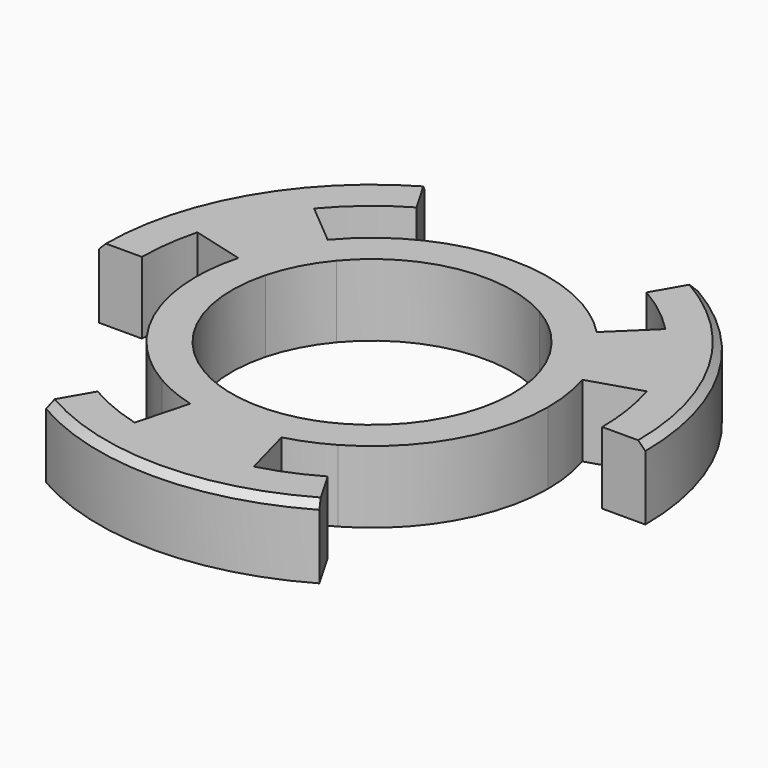
from build123d import *

# Parameters (mm, degrees)
F1_DEPTH = 10
F2_SIZE  = 1


with BuildPart() as f1:
    # F0 (on Top) → F1 (new body)
    with BuildSketch(Plane.XY):
        with BuildLine():
            ThreePointArc((17.5987305893, 17.0450779301), (21.0588665715, 12.5209479961), (23.3808837783, 7.320127987))
            Line((23.3808837783, 7.320127987), (30.5382971798, 9.5609834933))
            ThreePointArc((30.5382971798, 9.5609834933), (27.5054583792, 16.3538912603), (22.9860970963, 22.2629589292))
            Line((22.9860970963, 22.2629589292), (17.5987305893, 17.0450779301))
        make_face()
        with BuildLine():
            ThreePointArc((-9.75, -16.8874953738), (-18.015650884, -7.4623269311), (-18.8355536126, 5.0469713795))
            Line((-18.8355536126, 5.0469713795), (-23.6651827441, 6.341066605))
            ThreePointArc((-23.6651827441, 6.341066605), (-24.2903991037, 3.1978917094), (-24.5, 0))
            ThreePointArc((-24.5, 0), (-21.2176223927, -12.25), (-12.25, -21.2176223927))
            Line((-12.25, -21.2176223927), (-9.75, -16.8874953738))
        make_face()
        with BuildLine():
            Line((-23.6651827441, 6.341066605), (-18.8355536126, 5.0469713795))
            ThreePointArc((-18.8355536126, 5.0469713795), (-17.296711247, 9.0040979581), (-14.9378666408, 12.5343583889))
            Line((-14.9378666408, 12.5343583889), (-18.7680888564, 15.7482964373))
            ThreePointArc((-18.7680888564, 15.7482964373), (-21.7317654129, 11.3128410243), (-23.6651827441, 6.341066605))
        make_face()
        with BuildLine():
            Line((-18.7680888564, 15.7482964373), (-14.9378666408, 12.5343583889))
            ThreePointArc((-14.9378666408, 12.5343583889), (-3.3861394645, 19.2037511837), (9.75, 16.8874953738))
            Line((9.75, 16.8874953738), (12.25, 21.2176223927))
            ThreePointArc((12.25, 21.2176223927), (0, 24.5), (-12.25, 21.2176223927))
            ThreePointArc((-12.25, 21.2176223927), (-15.7482964373, 18.7680888564), (-18.7680888564, 15.7482964373))
        make_face()
        with BuildLine():
            ThreePointArc((9.75, 16.8874953738), (11.9940754906, 15.3750496951), (14.007152918, 13.5664905975))
            Line((14.007152918, 13.5664905975), (17.5987305893, 17.0450779301))
            ThreePointArc((17.5987305893, 17.0450779301), (15.0694794625, 19.3173701297), (12.25, 21.2176223927))
            Line((12.25, 21.2176223927), (9.75, 16.8874953738))
        make_face()
        with BuildLine():
            Line((-30.9096264413, 8.2822094433), (-23.6651827441, 6.341066605))
            ThreePointArc((-23.6651827441, 6.341066605), (-21.7317654129, 11.3128410243), (-18.7680888564, 15.7482964373))
            Line((-18.7680888564, 15.7482964373), (-24.5134221798, 20.56920351))
            ThreePointArc((-24.5134221798, 20.56920351), (-28.3843466617, 14.7759556235), (-30.9096264413, 8.2822094433))
        make_face()
        with BuildLine():
            Line((12.25, -21.2176223927), (9.75, -16.8874953738))
            ThreePointArc((9.75, -16.8874953738), (7.4623269311, -18.015650884), (5.0469713795, -18.8355536126))
            Line((5.0469713795, -18.8355536126), (6.341066605, -23.6651827441))
            ThreePointArc((6.341066605, -23.6651827441), (9.3757440929, -22.6350485465), (12.25, -21.2176223927))
        make_face()
        with BuildLine():
            Line((24.5, 0), (19.5, 0))
            ThreePointArc((19.5, 0), (16.8874953738, -9.75), (9.75, -16.8874953738))
            Line((9.75, -16.8874953738), (12.25, -21.2176223927))
            ThreePointArc((12.25, -21.2176223927), (21.2176223927, -12.25), (24.5, 0))
        make_face()
        with BuildLine():
            ThreePointArc((14.007152918, 13.5664905975), (16.7611386998, 9.9656524867), (18.6092748439, 5.8262243162))
            Line((18.6092748439, 5.8262243162), (23.3808837783, 7.320127987))
            ThreePointArc((23.3808837783, 7.320127987), (21.0588665715, 12.5209479961), (17.5987305893, 17.0450779301))
            Line((17.5987305893, 17.0450779301), (14.007152918, 13.5664905975))
        make_face()
        with BuildLine():
            Line((6.341066605, -23.6651827441), (5.0469713795, -18.8355536126))
            ThreePointArc((5.0469713795, -18.8355536126), (0, -19.5), (-5.0469713795, -18.8355536126))
            Line((-5.0469713795, -18.8355536126), (-6.341066605, -23.6651827441))
            ThreePointArc((-6.341066605, -23.6651827441), (0, -24.5), (6.341066605, -23.6651827441))
        make_face()
        with BuildLine():
            Line((-6.341066605, -23.6651827441), (-5.0469713795, -18.8355536126))
            ThreePointArc((-5.0469713795, -18.8355536126), (-7.4623269311, -18.015650884), (-9.75, -16.8874953738))
            Line((-9.75, -16.8874953738), (-12.25, -21.2176223927))
            ThreePointArc((-12.25, -21.2176223927), (-9.3757440929, -22.6350485465), (-6.341066605, -23.6651827441))
        make_face()
        with BuildLine():
            ThreePointArc((18.6092748439, 5.8262243162), (19.2760325204, 2.9469594961), (19.5, 0))
            Line((19.5, 0), (24.5, 0))
            ThreePointArc((24.5, 0), (24.2186049616, 3.7025901361), (23.3808837783, 7.320127987))
            Line((23.3808837783, 7.320127987), (18.6092748439, 5.8262243162))
        make_face()
        with BuildLine():
            ThreePointArc((30.5382971798, 9.5609834933), (31.6324636233, 4.8360360962), (32, 0))
            Line((32, 0), (38, 0))
            ThreePointArc((38, 0), (32.9089653438, 19), (19, 32.9089653438))
            Line((19, 32.9089653438), (16, 27.7128129211))
            ThreePointArc((16, 27.7128129211), (19.6825854204, 25.2308507817), (22.9860970963, 22.2629589292))
            ThreePointArc((22.9860970963, 22.2629589292), (27.5054583792, 16.3538912603), (30.5382971798, 9.5609834933))
        make_face()
        with BuildLine():
            ThreePointArc((-32, 0), (-31.726235564, 4.176838151), (-30.9096264413, 8.2822094433))
            ThreePointArc((-30.9096264413, 8.2822094433), (-28.3843466617, 14.7759556235), (-24.5134221798, 20.56920351))
            ThreePointArc((-24.5134221798, 20.56920351), (-20.56920351, 24.5134221798), (-16, 27.7128129211))
            Line((-16, 27.7128129211), (-19, 32.9089653438))
            ThreePointArc((-19, 32.9089653438), (-32.9089653438, 19), (-38, 0))
            Line((-38, 0), (-32, 0))
        make_face()
        with BuildLine():
            Line((19, -32.9089653438), (16, -27.7128129211))
            ThreePointArc((16, -27.7128129211), (12.2458698357, -29.5641450404), (8.2822094433, -30.9096264412))
            ThreePointArc((8.2822094433, -30.9096264412), (0, -32), (-8.2822094433, -30.9096264412))
            ThreePointArc((-8.2822094433, -30.9096264412), (-12.2458698357, -29.5641450404), (-16, -27.7128129211))
            Line((-16, -27.7128129211), (-19, -32.9089653438))
            ThreePointArc((-19, -32.9089653438), (0, -38), (19, -32.9089653438))
        make_face()
        with BuildLine():
            Line((8.2822094433, -30.9096264413), (6.341066605, -23.6651827441))
            ThreePointArc((6.341066605, -23.6651827441), (0, -24.5), (-6.341066605, -23.6651827441))
            Line((-6.341066605, -23.6651827441), (-8.2822094433, -30.9096264413))
            ThreePointArc((-8.2822094433, -30.9096264412), (0, -32), (8.2822094433, -30.9096264412))
        make_face()
    extrude(amount=F1_DEPTH)

    # F2
    f2_edges = [f1.edges().sort_by_distance(p)[0] for p in [
        (32.908965, 19, 10),
        (-32.908965, 19, 10),
        (0, -38, 10),
    ]]
    chamfer(f2_edges, length=F2_SIZE)


solid = f1.part
